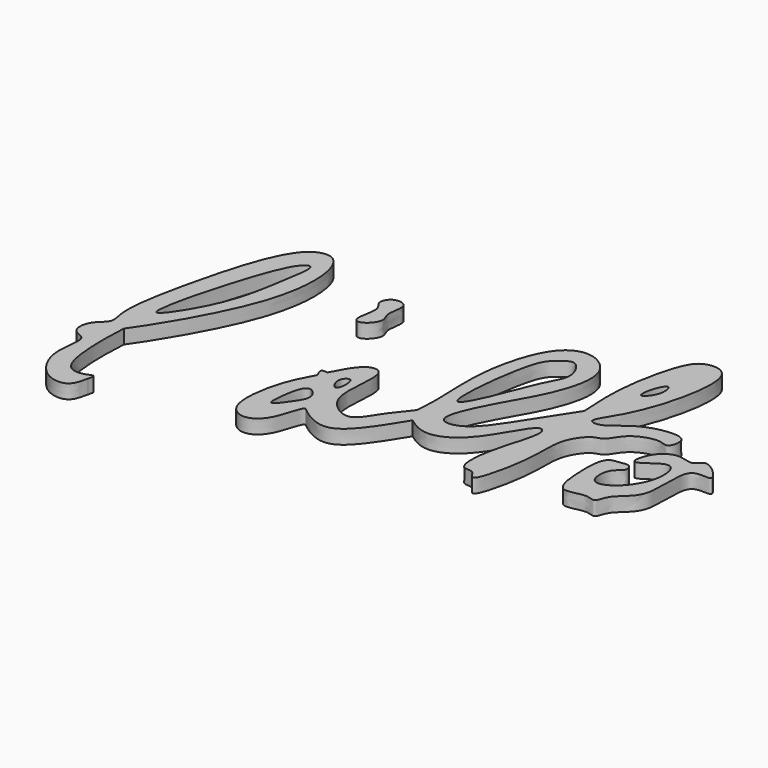
from build123d import *

# Parameters (mm, degrees)
F1_DEPTH = 2.54


with BuildPart() as f1:
    # F0 (on Top) → F1 (new body)
    with BuildSketch(Plane.XY):
        with BuildLine():
            add(Edge.make_bspline(
                [(-105.1916369373, -43.4395006613), (-105.4286587271, -44.6107198909), (-105.9208565095, -47.0428655083), (-110.8782632074, -46.7719864983), (-114.8016871883, -40.3914735668), (-112.5183914401, -33.7836341063), (-116.203711005, -33.5751667036), (-116.0880801376, -29.6316751295), (-112.9339394257, -27.8727175156), (-114.7493844142, -24.1387393121), (-111.9118788162, -9.8081298495), (-107.2700959443, 6.2843922128), (-101.2713453968, 7.7863582687), (-98.5312015729, 3.1366575484), (-99.0923449759, -8.694916576), (-107.323129171, -23.4133042791), (-109.8387511607, -27.0349124703), (-110.7644477064, -28.367588924)],
                knots=[0, 0, 0, 0, 0.0475976116, 0.0988408656, 0.1696911981, 0.2334483289, 0.2738029197, 0.320364547, 0.3663706422, 0.4130128957, 0.5164211668, 0.6256319564, 0.6798758841, 0.7340173174, 0.8258035038, 0.9358993142, 1, 1, 1, 1], degree=3))
            add(Edge.make_bspline(
                [(-110.7644477064, -28.367588924), (-110.8651618645, -30.2352161169), (-111.0785967749, -34.1931188565), (-110.3207176857, -42.984982685), (-106.5851678558, -42.9449786968), (-104.7454826836, -41.8614809246), (-105.0487350216, -42.9340655084), (-105.1916369373, -43.4395006613)],
                knots=[0, 0, 0, 0, 0.2697711802, 0.5717030129, 0.753922554, 0.8840406683, 1, 1, 1, 1], degree=3))
        make_face()
        with BuildLine():
            add(Edge.make_bspline(
                [(-103.2918133909, 2.2828526108), (-104.7628659388, 0.6389023236), (-107.8759270209, -8.618940825), (-110.266957756, -17.8753965393), (-110.730125033, -22.8221348636), (-107.4715929088, -18.8509764542), (-103.6509967771, -11.2565541144), (-102.4385058577, -3.0988958693), (-101.3242012239, 3.4567417495), (-102.7820590164, 2.8525201264), (-103.2918133909, 2.2828526108)],
                knots=[0, 0, 0, 0, 0.1721823161, 0.3413544894, 0.4266288238, 0.5170921155, 0.6704055508, 0.8252791044, 0.9403347698, 1, 1, 1, 1], degree=3))
        make_face(mode=Mode.SUBTRACT)
    extrude(amount=F1_DEPTH)


with BuildPart() as f1b:
    # F0 (on Top) → F1, piece 2 (new body)
    with BuildSketch(Plane.XY):
        with BuildLine():
            add(Edge.make_bspline(
                [(-87.5866302425, 0.2563766448), (-87.4378531805, -0.3162524735), (-85.9560952927, -1.0969267977), (-87.7185549907, -5.8765314112), (-85.4561396063, -6.3492326529), (-83.2559814691, -3.5575734435), (-84.9817469989, -1.820657482), (-83.4418413083, 2.2665873463), (-87.0448673497, 2.7029302994), (-87.7441588477, 0.8626896416), (-87.5866302425, 0.2563766448)],
                knots=[0, 0, 0, 0, 0.1091732967, 0.2725376715, 0.3643411054, 0.5000172274, 0.6154010155, 0.763034319, 0.8844047803, 1, 1, 1, 1], degree=3))
        make_face()
    extrude(amount=F1_DEPTH)


with BuildPart() as f1c:
    # F0 (on Top) → F1, piece 3 (new body)
    with BuildSketch(Plane.XY):
        with BuildLine():
            add(Edge.make_bspline(
                [(-80.6206205064, -22.4148171709), (-80.890766492, -21.8379185671), (-81.3880768894, -20.7759088048), (-80.4265588895, -20.8576307559), (-79.987350958, -20.8949601965)],
                knots=[0, 0, 0, 0, 0.5432140309, 1, 1, 1, 1], degree=3))
            add(Edge.make_bspline(
                [(-80.6206205064, -22.4148171709), (-81.5396987861, -24.0947555345), (-83.5317735612, -27.7359718613), (-84.7917686666, -36.7795767693), (-80.9824123403, -39.4836079912), (-77.1044338004, -37.2781852907), (-76.0058437932, -30.7782750009), (-74.8198550469, -32.1293460228), (-71.451841344, -34.3173530871), (-67.0583402097, -33.8058290421), (-63.6383810577, -28.281974087), (-61.4957624251, -24.8212559836)],
                knots=[0, 0, 0, 0, 0.1270880405, 0.2754595394, 0.369595965, 0.470534875, 0.5894046052, 0.636310804, 0.7369607905, 0.8352048413, 1, 1, 1, 1], degree=3))
            add(Edge.make_bspline(
                [(-44.3973728136, -7.469560609), (-44.5852540282, -4.5109018615), (-44.9498274277, 1.5210536631), (-42.7056921946, 11.6917740139), (-40.432657254, 14.7200998277), (-35.3523932964, 14.6154082663), (-35.2773626928, 5.8401876078), (-38.9067575975, -4.7810508771), (-42.6333720225, -9.3801266773), (-39.4871577732, -9.7542849532), (-36.276409935, -6.1658132936), (-30.8549379831, -4.7355643391), (-27.5049727608, -5.3984909115), (-28.3648453399, -9.0846886149), (-30.4264744307, -7.5015643425), (-35.3638256228, -9.1887901819), (-36.5446429781, -12.6667180559), (-38.7706149398, -12.6080739935), (-41.8515791726, -16.8798083292), (-40.7805163957, -23.0875367663), (-43.6588998975, -35.3775138376), (-44.9250555859, -31.2616995798), (-47.8511927021, -32.2432730054), (-47.5044810642, -24.5106217504), (-44.2639936988, -16.510866507), (-46.6154479873, -14.558759902), (-50.570451858, -23.3641466749), (-55.6185607903, -26.8011141251), (-59.0883738879, -26.5325702783), (-60.7003774346, -25.3866627233), (-61.4957624251, -24.8212559836)],
                knots=[0, 0, 0, 0, 0.0508453884, 0.1039992445, 0.134706807, 0.165522815, 0.2108683051, 0.2696642653, 0.3041557832, 0.3255742776, 0.362064929, 0.4019499678, 0.4289494539, 0.4546714737, 0.476827394, 0.5134900517, 0.5435215148, 0.5657496731, 0.6002154989, 0.6462018383, 0.6973908406, 0.7193507065, 0.7417913466, 0.7844159347, 0.8339732812, 0.8519839934, 0.9007260337, 0.9426579538, 0.9717100968, 1, 1, 1, 1], degree=3))
            add(Edge.make_bspline(
                [(-44.3973728136, -7.469560609), (-45.9703090294, -9.8506548043), (-49.0837630213, -14.5637844784), (-53.6931645114, -22.1300823443), (-58.1192843194, -22.6948699652), (-58.9482545653, -20.1492102525), (-54.9097493209, -12.0944292831), (-51.1515357382, -6.1242968013), (-48.6270943193, 2.9410908169), (-54.0557936299, 7.3077304678), (-60.2461518405, 5.1703416033), (-63.4945421443, -7.3366752172), (-62.611821372, -16.0303983565), (-62.8545768185, -20.1926442317), (-63.0156138116, -22.0348524617)],
                knots=[0, 0, 0, 0, 0.0950504528, 0.1892385957, 0.2474380789, 0.2902678571, 0.3839734774, 0.4745325465, 0.5670614296, 0.6416953115, 0.7144900155, 0.8265876659, 0.923200816, 1, 1, 1, 1], degree=3))
            add(Edge.make_bspline(
                [(-79.987350958, -20.8949601965), (-78.934623867, -18.8520041634), (-77.2439748981, -15.5710764277), (-73.3683619741, -15.7565679765), (-74.4669826435, -22.8530485302), (-73.8582846929, -27.583846609), (-68.8005445206, -30.7943430066), (-66.315318238, -26.00824069), (-64.1570316221, -23.4093077175), (-63.0156138116, -22.0348524617)],
                knots=[0, 0, 0, 0, 0.16066344, 0.2580207934, 0.4228107773, 0.5716843869, 0.7088961737, 0.8460486714, 1, 1, 1, 1], degree=3))
        make_face()
        with BuildLine():
            add(Edge.make_bspline(
                [(-79.0679940158, -26.3927729556), (-80.007896238, -26.7237778512), (-80.6865130691, -31.0175199921), (-80.6672515887, -34.0192900011), (-78.048101932, -30.5527264308), (-76.5747509984, -27.9508695967), (-78.4398682824, -26.1715662301), (-79.0679940158, -26.3927729556)],
                knots=[0, 0, 0, 0, 0.2595578694, 0.418480155, 0.6237739775, 0.8265404919, 1, 1, 1, 1], degree=3))
        make_face(mode=Mode.SUBTRACT)
        with BuildLine():
            add(Edge.make_bspline(
                [(-76.0366284424, -20.6798135059), (-76.4387567891, -20.3181833168), (-78.0686867782, -21.5838754574), (-75.6335285096, -25.4861688575), (-75.479358433, -21.1809611135), (-76.0366284424, -20.6798135059)],
                knots=[0, 0, 0, 0, 0.2775255995, 0.615404647, 1, 1, 1, 1], degree=3))
        make_face(mode=Mode.SUBTRACT)
        with BuildLine():
            add(Edge.make_bspline(
                [(-56.7991175825, 2.1720214991), (-57.6167766767, 1.5105496434), (-59.609035735, 0.0154417762), (-61.6816241248, -19.2879079879), (-57.6869813887, -13.5929977983), (-54.7620207325, -4.4947488269), (-51.7942265066, -0.5091656785), (-54.4982869258, 4.086731535), (-56.162066185, 2.6873848982), (-56.7991175825, 2.1720214991)],
                knots=[0, 0, 0, 0, 0.1186458997, 0.3575309341, 0.4581649269, 0.6558413492, 0.7899134956, 0.9075610646, 1, 1, 1, 1], degree=3))
        make_face(mode=Mode.SUBTRACT)
        with BuildLine():
            add(Edge.make_bspline(
                [(-39.7768207962, 5.6697524397), (-40.1852728212, 5.7373921258), (-41.2704362, 3.5316249375), (-41.5035483817, 0.1758675537), (-38.8684793392, 3.1721222674), (-39.3847992684, 5.6048336452), (-39.7768207962, 5.6697524397)],
                knots=[0, 0, 0, 0, 0.2558063053, 0.4937782553, 0.7544838256, 1, 1, 1, 1], degree=3))
        make_face(mode=Mode.SUBTRACT)
    extrude(amount=F1_DEPTH)


with BuildPart() as f1d:
    # F0 (on Top) → F1, piece 4 (new body)
    with BuildSketch(Plane.XY):
        with BuildLine():
            add(Edge.make_bspline(
                [(-30.6827315265, -16.5991295816), (-31.3731732019, -16.6907396393), (-33.3350469232, -16.608364309), (-33.4271397228, -23.0760988942), (-32.5850345704, -29.2142737309), (-28.1857420442, -26.9800038449), (-25.9051410432, -28.4825490221), (-25.6148980358, -24.9722371594), (-20.2018494961, -22.7005330704), (-22.957015568, -10.9640145942), (-15.5377674801, -13.5391728544), (-21.2241996559, -7.8555882432), (-22.3184238538, -11.1155559033), (-25.5138308278, -9.2326636643), (-29.0252113374, -11.4694796026), (-30.1082277785, -17.1454993482), (-24.0435916682, -10.7394016932), (-22.6575649282, -17.9109548995), (-26.8961254283, -23.4482066334), (-30.7658504103, -23.7781860379), (-30.6469409528, -18.9811431103), (-28.3165477598, -18.2176459763), (-28.8877316428, -16.1629888674), (-30.0517518589, -16.5154091374), (-30.6827315265, -16.5991295816)],
                knots=[0, 0, 0, 0, 0.0339757296, 0.0934420119, 0.1478654818, 0.1941766995, 0.2274990403, 0.2647259731, 0.3202828963, 0.3930024187, 0.4354816966, 0.4865498137, 0.520404168, 0.5612155343, 0.6100773687, 0.6523155663, 0.7054577859, 0.7563716004, 0.820899101, 0.8598219052, 0.9060253244, 0.9409296147, 0.9689503178, 1, 1, 1, 1], degree=3))
        make_face()
    extrude(amount=F1_DEPTH)


solid = Compound([f1.part, f1b.part, f1c.part, f1d.part])
